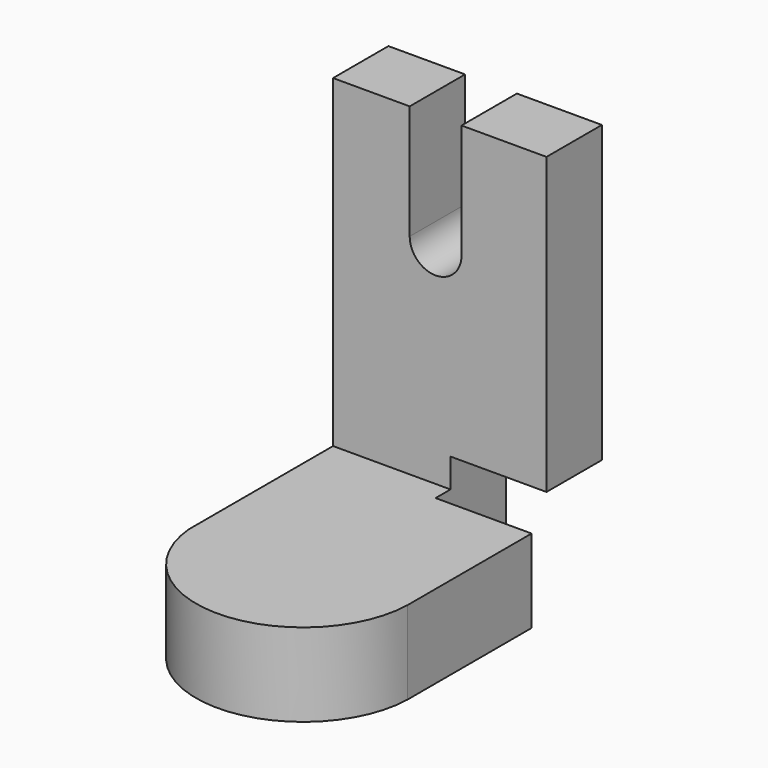
from build123d import *

# Parameters (mm, degrees)
F0_W      = 67.7789226174
F0_H      = 110.2438345551
F1_DEPTH  = 10.668
F2_W      = 67.7789226174
F2_H      = 21.9810828567
F3_DEPTH  = 84.074
F4_DEPTH  = 15.748
F5_DEPTH  = 34.544
F7_DEPTH  = 25.4
F9_DEPTH  = 64.77
F10_W     = 32.31433779
F10_H     = 40.7657716423
F11_DEPTH = 30.48


with BuildPart() as f1:
    # F0 (on Top) → F1 (new body)
    with BuildSketch(Plane.XY):
        Rectangle(F0_W, F0_H)
    extrude(amount=F1_DEPTH)

    # F2 (on face) → F3 (join)
    with BuildSketch(Plane.XY.offset(10.668)):
        with Locations((0, 44.1313758492)):
            Rectangle(F2_W, F2_H)
    extrude(amount=F3_DEPTH)

    # F4 (add): a face of the model
    f4_faces = [f1.faces().sort_by_distance(p)[0] for p in [
        (0, -10.9905414283, 10.668),
    ]]
    extrude(f4_faces, amount=F4_DEPTH)

    # F5 (add): a face of the model
    f5_faces = [f1.faces().sort_by_distance(p)[0] for p in [
        (0, 44.1313758492, 94.742),
    ]]
    extrude(f5_faces, amount=F5_DEPTH)

    # F6 (on face) → F7 (cut)
    with BuildSketch(Plane.XZ.offset(-33.1408344209)):
        with BuildLine():
            Line((6.9014118053, 129.286), (-9.5512475818, 129.286))
            Line((-9.5512475818, 129.286), (-9.5512475818, 92.9261893034))
            ThreePointArc((-9.5512475818, 92.9261893034), (-1.3249178883, 84.6998596098), (6.9014118053, 92.9261893034))
            Line((6.9014118053, 92.9261893034), (6.9014118053, 129.286))
        make_face()
    extrude(amount=-F7_DEPTH, mode=Mode.SUBTRACT)

    # F8 (on face) → F9 (cut)
    with BuildSketch(Plane.XY.offset(26.416)):
        with BuildLine():
            ThreePointArc((33.8894613087, -22.0553063396), (0.997184828, -54.9834271284), (-33.8894613087, -24.1762053761))
            Line((-33.8894613087, -24.1762053761), (-33.8894613087, -55.1219172776))
            Line((-33.8894613087, -55.1219172776), (33.8894613087, -55.1219172776))
            Line((33.8894613087, -55.1219172776), (33.8894613087, -22.0553063396))
        make_face()
    extrude(amount=-F9_DEPTH, mode=Mode.SUBTRACT)

    # F10 (on face) → F11 (cut)
    with BuildSketch(Plane.YZ.offset(33.8894613087)):
        with Locations((43.3757714927, 15.2329867706)):
            Rectangle(F10_W, F10_H)
    extrude(amount=-F11_DEPTH, mode=Mode.SUBTRACT)


solid = f1.part
